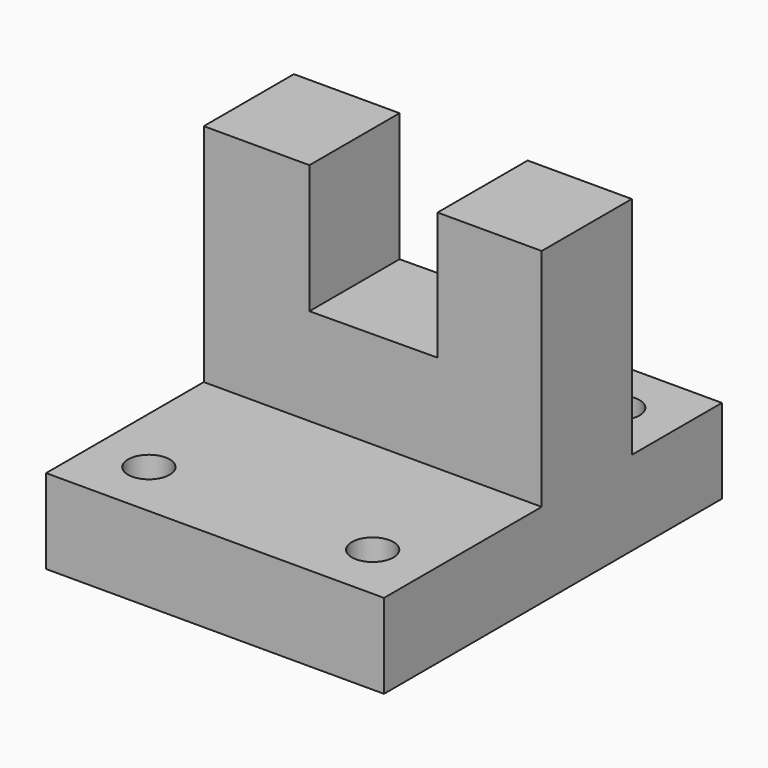
from build123d import *

# Parameters (mm, degrees)
F1_DEPTH      = 76.2
F3_DEPTH      = 54.411857
F3_DEPTH_BACK = 50.8
F4_R          = 4.699
F5_DEPTH      = 32.667806


with BuildPart() as f1:
    # F0 (on Right) → F1 (new body)
    with BuildSketch(Plane.YZ):
        Polygon((-54.410857, -32.666806), (40.839143, -32.666806), (40.839143, -13.616806), (15.439143, -13.616806), (15.439143, 37.183194), (-9.960857, 37.183194), (-9.960857, -13.616806), (-54.410857, -13.616806), align=None)
    extrude(amount=F1_DEPTH)

    # F2 (on Front) → F3 (cut, two sides)
    with BuildSketch(Plane.XZ) as f3_sk:
        Polygon((52.712968, 8.363965), (52.712968, 36.938965), (52.712968, 49.710356), (23.8252, 49.710356), (23.8252, 36.769882), (23.8252, 8.194882), align=None)
        Polygon((52.712968, 8.363965), (52.712968, 36.938965), (52.712968, 49.710356), (23.8252, 49.710356), (23.8252, 36.769882), (23.8252, 8.194882), align=None)
    extrude(amount=F3_DEPTH, mode=Mode.SUBTRACT)
    extrude(f3_sk.sketch, amount=-F3_DEPTH_BACK, mode=Mode.SUBTRACT)

    # F4 (on Top) → F5 (cut, through all)
    with BuildSketch(Plane.XY):
        with Locations((12.7, 28.12115)):
            Circle(F4_R)
        with Locations((63.163701, 28.038393)):
            Circle(F4_R)
        with Locations((63.163701, -41.310414)):
            Circle(F4_R)
        with Locations((12.7, -41.310414)):
            Circle(F4_R)
    extrude(amount=-F5_DEPTH, mode=Mode.SUBTRACT)


solid = f1.part
